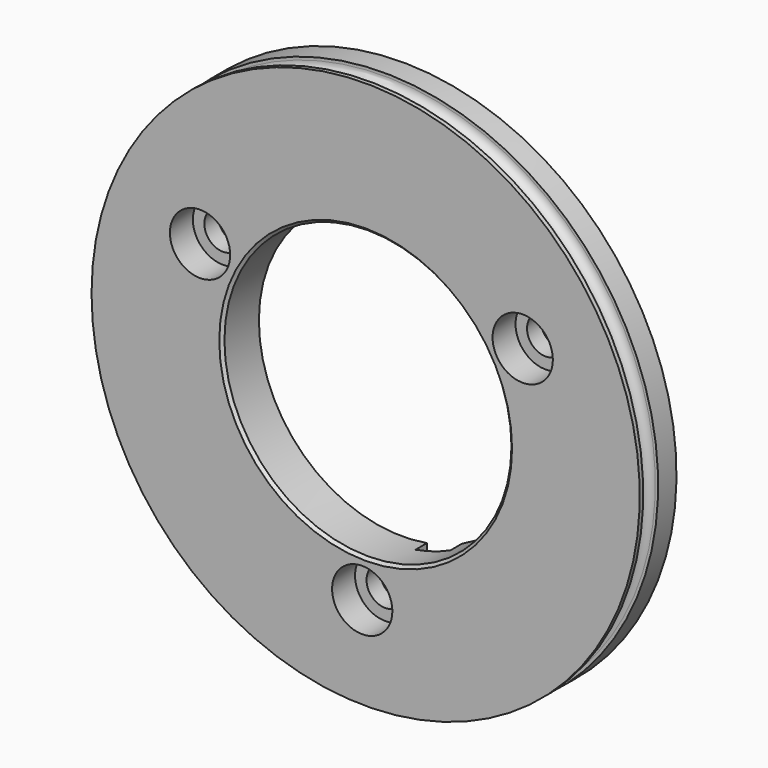
from build123d import *

# Parameters (mm, degrees)
F2_SIZE        = 0.5
F4_DEPTH       = 2.5
F6_D           = 6.5
F6_CBORE_D     = 10.5
F6_CBORE_DEPTH = 5


with BuildPart() as f1:
    # F0 (on Top) → F1 (revolve)
    with BuildSketch(Plane.XY):
        with BuildLine():
            Line((-47.750211, -7.25), (-47.750212, -8))
            Line((-47.750212, -8), (-25.000581, -8))
            Line((-25.000581, -8), (-25, 0))
            Line((-25, 0), (-47.75, 0))
            Line((-47.75, 0), (-47.75019, -4))
            Line((-47.75019, -4), (-47.250211, -4))
            ThreePointArc((-47.250211, -4), (-46.189551, -4.43934), (-45.750211, -5.5))
            Line((-45.750211, -5.5), (-45.750211, -5.75))
            ThreePointArc((-45.750211, -5.75), (-46.189551, -6.81066), (-47.250211, -7.25))
            Line((-47.250211, -7.25), (-47.750211, -7.25))
        make_face()
    revolve(axis=Axis((0, 4.349666, 0), (0, 1, 0)))

    # F2
    f2_edges = [f1.edges().sort_by_distance(p)[0] for p in [
        (25.000581, -8, 0),
    ]]
    chamfer(f2_edges, length=F2_SIZE)

    # F3 (on face) → F4 (cut)
    with BuildSketch(Plane(origin=(0, 0, 0), x_dir=(-1, 0, 0), z_dir=(0, 1, 0))):
        with BuildLine():
            ThreePointArc((-4.265587, -23.938974), (-7.351028, -20.725712), (-10.56429, -23.811154))
            Line((-10.56429, -23.811154), (-11.035483, -47.030372))
            ThreePointArc((-11.035483, -47.030372), (-7.950042, -50.243634), (-4.73678, -47.158193))
            Line((-4.73678, -47.158193), (-4.265587, -23.938974))
        make_face()
    extrude(amount=-F4_DEPTH, mode=Mode.SUBTRACT)

    # F6 (through all)
    with Locations(Plane.XZ.offset(8)):
        with Locations((-28.85, 13.73333), (27.356101, 15.955209), (-0.6, -31.7)):
            CounterBoreHole(F6_D / 2, F6_CBORE_D / 2, F6_CBORE_DEPTH)


solid = f1.part
